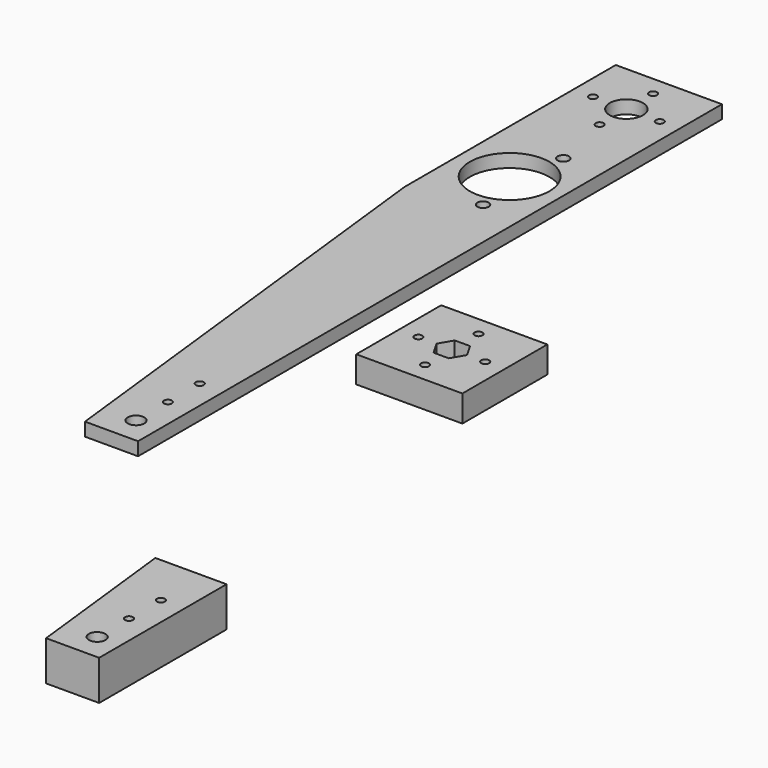
from build123d import *

# Parameters (mm, degrees)
F0_R     = 3.96875
F0_R_2   = 1.905
F0_R_3   = 7.9375
F0_R_4   = 19.05
F0_R_5   = 2.703777
F1_DEPTH = 6.35
F2_W     = 50.8
F2_H     = 50.8
F2_R     = 1.905
F3_DEPTH = 12.7
F4_R     = 3.96875
F4_R_2   = 1.905
F5_DEPTH = 19.05


with BuildPart() as f1:
    # F0 (on Top) → F1 (new body)
    with BuildSketch(Plane.XY):
        Polygon((-27.325561, -96.356438), (-27.325561, 11.593562), (-65.02491, 11.593562), (-52.725561, -96.356438), align=None)
        with Locations((-38.438061, -83.656438)):
            Circle(F0_R, mode=Mode.SUBTRACT)
        with Locations((-38.438061, -64.606438)):
            Circle(F0_R_2, mode=Mode.SUBTRACT)
        with Locations((-38.438061, -45.556438)):
            Circle(F0_R_2, mode=Mode.SUBTRACT)
        Polygon((-27.325561, 252.893562), (-78.125561, 252.893562), (-78.125561, 126.576501), (-65.02491, 11.593562), (-27.325561, 11.593562), align=None)
        with Locations((-68.725561, 227.493562)):
            Circle(F0_R_2, mode=Mode.SUBTRACT)
        with Locations((-52.725561, 211.493562)):
            Circle(F0_R_2, mode=Mode.SUBTRACT)
        with Locations((-52.725561, 227.493562)):
            Circle(F0_R_3, mode=Mode.SUBTRACT)
        with Locations((-52.725561, 243.493562)):
            Circle(F0_R_2, mode=Mode.SUBTRACT)
        with Locations((-52.725561, 157.643562)):
            Circle(F0_R_4, mode=Mode.SUBTRACT)
        with Locations((-46.225561, 133.643562)):
            Circle(F0_R_5, mode=Mode.SUBTRACT)
        with Locations((-46.225561, 181.643562)):
            Circle(F0_R_5, mode=Mode.SUBTRACT)
        with Locations((-36.725561, 227.493562)):
            Circle(F0_R_2, mode=Mode.SUBTRACT)
    extrude(amount=F1_DEPTH)


with BuildPart() as f3:
    # F2 (on Top) → F3 (new body)
    with BuildSketch(Plane.XY):
        with Locations((25.4, 25.4)):
            Rectangle(F2_W, F2_H)
        with Locations((25.4, 9.4)):
            Circle(F2_R, mode=Mode.SUBTRACT)
        with Locations((9.4, 25.4)):
            Circle(F2_R, mode=Mode.SUBTRACT)
        Polygon((18.067652, 25.4), (21.733826, 31.75), (29.066174, 31.75), (32.732348, 25.4), (29.066174, 19.05), (21.733826, 19.05), align=None, mode=Mode.SUBTRACT)
        with Locations((41.4, 25.4)):
            Circle(F2_R, mode=Mode.SUBTRACT)
        with Locations((25.4, 41.4)):
            Circle(F2_R, mode=Mode.SUBTRACT)
    extrude(amount=F3_DEPTH)


with BuildPart() as f5:
    # F4 (on Top) → F5 (new body)
    with BuildSketch(Plane.XY):
        Polygon((51.963728, -185.131654), (60.645621, -261.331654), (86.045621, -261.331654), (86.045621, -185.131654), align=None)
        with Locations((74.933121, -248.631654)):
            Circle(F4_R, mode=Mode.SUBTRACT)
        with Locations((74.933121, -229.581654)):
            Circle(F4_R_2, mode=Mode.SUBTRACT)
        with Locations((74.933121, -210.531654)):
            Circle(F4_R_2, mode=Mode.SUBTRACT)
    extrude(amount=F5_DEPTH)


solid = Compound([f1.part, f3.part, f5.part])
